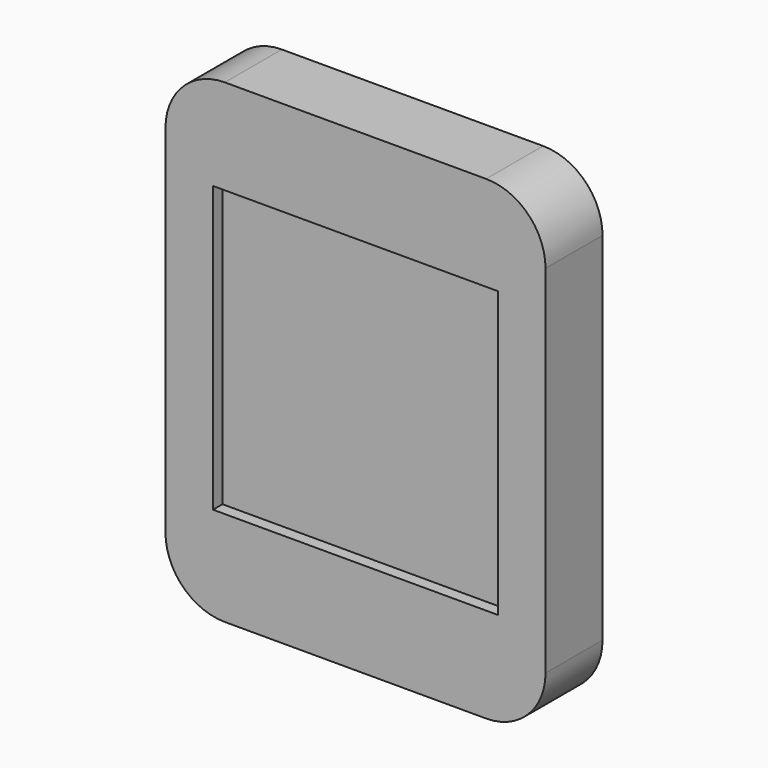
from build123d import *

# Parameters (mm, degrees)
F0_W     = 24
F0_H     = 24
F1_DEPTH = 6
F2_DEPTH = 5


with BuildPart() as f1:
    # F0 (on Front) → F1 (new body)
    with BuildSketch(Plane.XZ):
        with BuildLine():
            Line((11, 20), (-11, 20))
            ThreePointArc((-11, 20), (-14.535534, 18.535534), (-16, 15))
            Line((-16, 15), (-16, -15))
            ThreePointArc((-16, -15), (-14.535534, -18.535534), (-11, -20))
            Line((-11, -20), (11, -20))
            ThreePointArc((11, -20), (14.535534, -18.535534), (16, -15))
            Line((16, -15), (16, 15))
            ThreePointArc((16, 15), (14.535534, 18.535534), (11, 20))
        make_face()
        Rectangle(F0_W, F0_H, mode=Mode.SUBTRACT)
    extrude(amount=F1_DEPTH)

    # F0 (on Front) → F2 (join)
    with BuildSketch(Plane.XZ):
        Rectangle(F0_W, F0_H)
    extrude(amount=F2_DEPTH)


solid = f1.part
